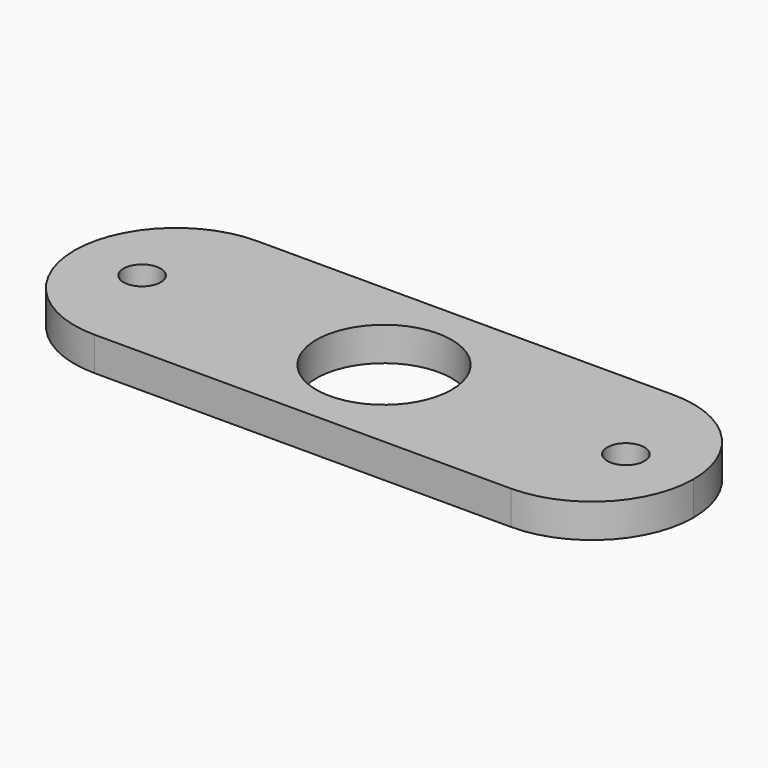
from build123d import *

# Parameters (mm, degrees)
F0_R     = 5.5
F0_R_2   = 20
F1_DEPTH = 10


with BuildPart() as f1:
    # F0 (on Top) → F1 (new body)
    with BuildSketch(Plane.XY):
        with BuildLine():
            ThreePointArc((0, 30), (8.786797, 8.786797), (30, 0))
            Line((30, 0), (153, 0))
            ThreePointArc((153, 0), (174.213203, 8.786797), (183, 30))
            ThreePointArc((183, 30), (174.213203, 51.213203), (153, 60))
            Line((153, 60), (30, 60))
            ThreePointArc((30, 60), (8.786797, 51.213203), (0, 30))
        make_face()
        with Locations((20, 30)):
            Circle(F0_R, mode=Mode.SUBTRACT)
        with Locations((91.5, 30)):
            Circle(F0_R_2, mode=Mode.SUBTRACT)
        with Locations((163, 30)):
            Circle(F0_R, mode=Mode.SUBTRACT)
    extrude(amount=F1_DEPTH)


solid = f1.part
